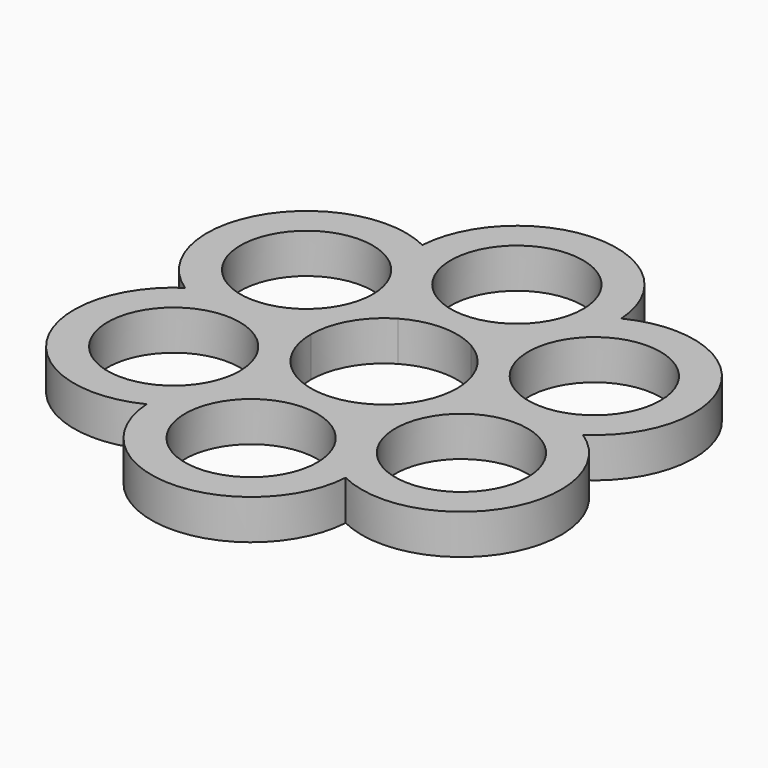
from build123d import *

# Parameters (mm, degrees)
F0_R     = 9.95
F1_DEPTH = 6


with BuildPart() as f1:
    # F0 (on Top) → F1 (new body)
    with BuildSketch(Plane.XY):
        with BuildLine():
            ThreePointArc((29.942197, 0), (34.641016, 20), (14.971099, 25.930703))
            ThreePointArc((14.971099, 25.930703), (0, 40), (-14.971099, 25.930703))
            ThreePointArc((-14.971099, 25.930703), (-34.641016, 20), (-29.942197, 0))
            ThreePointArc((-29.942197, 0), (-34.641016, -20), (-14.971099, -25.930703))
            ThreePointArc((-14.971099, -25.930703), (0, -40), (14.971099, -25.930703))
            ThreePointArc((14.971099, -25.930703), (34.641016, -20), (29.942197, 0))
        make_face()
        with Locations((0, -25)):
            Circle(F0_R, mode=Mode.SUBTRACT)
        with Locations((-21.650635, -12.5)):
            Circle(F0_R, mode=Mode.SUBTRACT)
        with Locations((21.650635, -12.5)):
            Circle(F0_R, mode=Mode.SUBTRACT)
        with Locations((-21.650635, 12.5)):
            Circle(F0_R, mode=Mode.SUBTRACT)
        with BuildLine():
            ThreePointArc((-5.5, 9.526279), (0, 11), (5.5, 9.526279))
            ThreePointArc((5.5, 9.526279), (9.526279, 5.5), (11, 0))
            ThreePointArc((11, 0), (9.526279, -5.5), (5.5, -9.526279))
            ThreePointArc((5.5, -9.526279), (0, -11), (-5.5, -9.526279))
            ThreePointArc((-5.5, -9.526279), (-9.526279, -5.5), (-11, 0))
            ThreePointArc((-11, 0), (-9.526279, 5.5), (-5.5, 9.526279))
        make_face(mode=Mode.SUBTRACT)
        with Locations((0, 25)):
            Circle(F0_R, mode=Mode.SUBTRACT)
        with Locations((21.650635, 12.5)):
            Circle(F0_R, mode=Mode.SUBTRACT)
    extrude(amount=F1_DEPTH)


solid = f1.part
